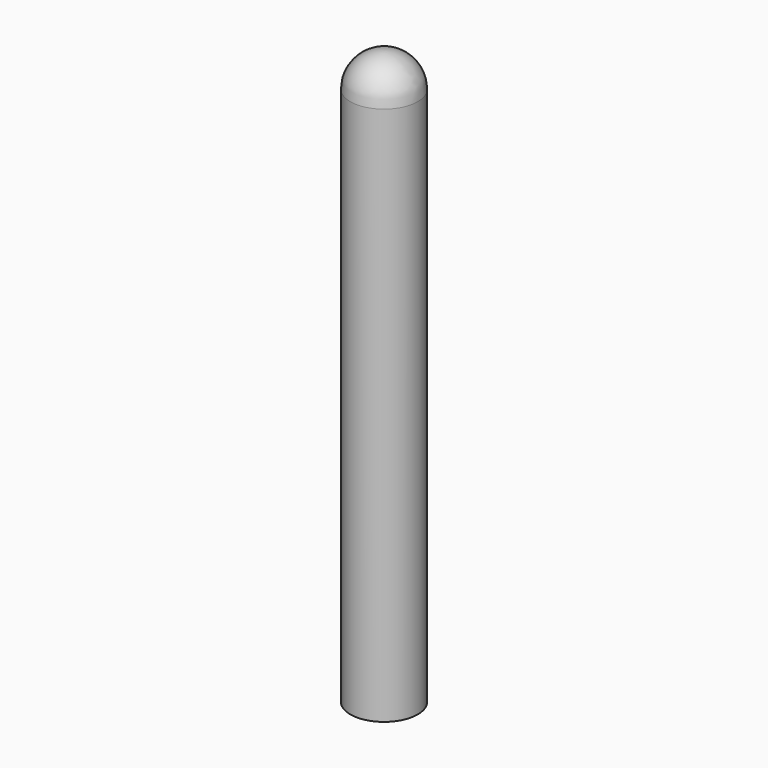
from build123d import *

# Parameters (mm, degrees)
F0_R     = 12.7
F1_DEPTH = 203.2


with BuildPart() as f1:
    # F0 (on Top) → F1 (new body)
    with BuildSketch(Plane.XY):
        Circle(F0_R)
    extrude(amount=F1_DEPTH)

    # F2 (on Front) → F3 (revolve)
    with BuildSketch(Plane.XZ):
        with BuildLine():
            Line((0, 215.9), (0, 203.2))
            Line((0, 203.2), (12.7, 203.2))
            ThreePointArc((12.7, 203.2), (8.980256, 212.180256), (0, 215.9))
        make_face()
    revolve(axis=Axis((0, 0, 209.55), (0, 0, 1)))


solid = f1.part
